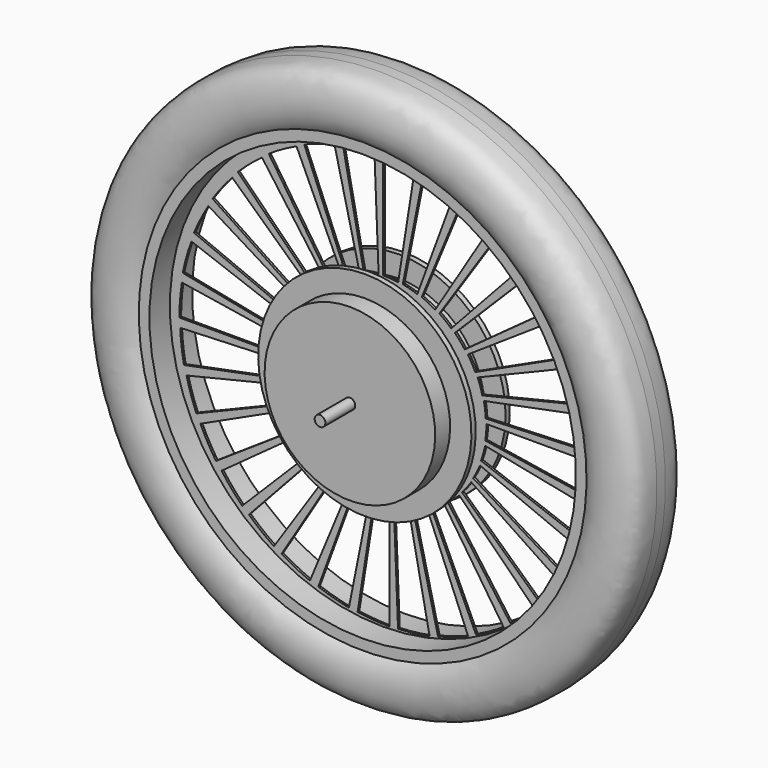
from build123d import *

# Parameters (mm, degrees)
F3_DEPTH      = 10
F4_R          = 5
F5_DEPTH      = 35
F5_DEPTH_BACK = 115


with BuildPart() as f1:
    # F0 (on Right) → F1 (revolve)
    with BuildSketch(Plane.YZ):
        with BuildLine():
            Line((-25, 200), (-1, 200))
            Line((-1, 200), (-1, 80))
            Line((-1, 80), (-17.5, 80))
            Line((-17.5, 80), (-17.5, 100))
            Line((-17.5, 100), (-22.5, 100))
            Line((-22.5, 100), (-22.5, 80))
            Line((-22.5, 80), (-40, 80))
            Line((-40, 80), (-40, 0))
            Line((-40, 0), (0, 0))
            Line((0, 0), (40, 0))
            Line((40, 0), (40, 80))
            Line((40, 80), (22.5, 80))
            Line((22.5, 80), (22.5, 100))
            Line((22.5, 100), (17.5, 100))
            Line((17.5, 100), (17.5, 80))
            Line((17.5, 80), (1, 80))
            Line((1, 80), (1, 200))
            Line((1, 200), (25, 200))
            Line((25, 200), (25, 210))
            add(Edge.make_bspline(
                [(5, 260), (14.4691513851, 259.7929239273), (28.9102213772, 257.5213293499), (34.4464546168, 227.2278870991), (28.855293881, 214.4344179728), (25, 210)],
                knots=[0, 0, 0, 0, 0.3296658948, 0.6914650989, 1, 1, 1, 1], degree=3))
            Line((5, 260), (0, 260))
            Line((0, 260), (-5, 260))
            add(Edge.make_bspline(
                [(-5, 260), (-14.4691513851, 259.7929239273), (-28.9102213772, 257.5213293499), (-34.4464546168, 227.2278870991), (-28.855293881, 214.4344179728), (-25, 210)],
                knots=[0, 0, 0, 0, 0.3296658948, 0.6914650989, 1, 1, 1, 1], degree=3))
            Line((-25, 210), (-25, 200))
        make_face()
    revolve(axis=Axis((0, -20, 0), (0, -1, 0)))

    # F2 (on face) → F3 (cut)
    with BuildSketch(Plane.XZ.offset(1)):
        with BuildLine():
            Line((0, 190), (0, 90))
            ThreePointArc((0, 90), (7.0613186155, 89.722560036), (14.0791018536, 88.8919506536))
            Line((14.0791018536, 88.8919506536), (29.7225483576, 187.6607847131))
            ThreePointArc((29.7225483576, 187.6607847131), (14.9072281883, 189.4142934093), (0, 190))
        make_face()
        with BuildLine():
            Line((-37.7873919745, 185.7091902602), (-18.2783597729, 87.6306622199))
            ThreePointArc((-18.2783597729, 87.6306622199), (-11.2985965627, 88.7361481095), (-4.2536142098, 89.2906002452))
            Line((-4.2536142098, 89.2906002452), (-8.1795957857, 189.2135038693))
            ThreePointArc((-8.1795957857, 189.2135038693), (-23.0523363084, 188.042993805), (-37.7873919745, 185.7091902602))
        make_face()
        with BuildLine():
            Line((-74.0116143541, 174.1288727579), (-35.7432711176, 81.7409195068))
            ThreePointArc((-35.7432711176, 81.7409195068), (-29.1132916985, 84.1868480473), (-22.3118449518, 86.1050544165))
            Line((-22.3118449518, 86.1050544165), (-45.6563813374, 183.3420464563))
            ThreePointArc((-45.6563813374, 183.3420464563), (-60.014991136, 179.2924996768), (-74.0116143541, 174.1288727579))
        make_face()
        with BuildLine():
            Line((-107.2805905875, 155.7040726004), (-51.7235672855, 72.5571113702))
            ThreePointArc((-51.7235672855, 72.5571113702), (-45.6981580485, 76.2494868995), (-39.4016226921, 79.4577319072))
            Line((-39.4016226921, 79.4577319072), (-81.2675964459, 170.2720492897))
            ThreePointArc((-81.2675964459, 170.2720492897), (-94.5602821982, 163.4990876068), (-107.2805905875, 155.7040726004))
        make_face()
        with BuildLine():
            Line((-136.3158125755, 131.1428445251), (-65.6051344568, 60.4321664065))
            ThreePointArc((-65.6051344568, 60.4321664065), (-60.4158484998, 65.2290930037), (-54.8661968564, 69.6040855934))
            Line((-54.8661968564, 69.6040855934), (-113.6447220856, 150.5057850309))
            ThreePointArc((-113.6447220856, 150.5057850309), (-125.3606533328, 141.2696895637), (-136.3158125755, 131.1428445251))
        make_face()
        with BuildLine():
            Line((-160.0014730202, 101.3890627528), (-76.85451179, 45.8320394508))
            ThreePointArc((-76.85451179, 45.8320394508), (-72.700770462, 51.5491739169), (-68.1112725319, 56.922785577))
            Line((-68.1112725319, 56.922785577), (-141.5435234755, 124.8028601303))
            ThreePointArc((-141.5435234755, 124.8028601303), (-151.2324635501, 113.4585688479), (-160.0014730202, 101.3890627528))
        make_face()
        with BuildLine():
            Line((-177.4273452739, 67.5861484308), (-85.0393920227, 29.3178051943))
            ThreePointArc((-85.0393920227, 29.3178051943), (-82.0808212737, 35.735441258), (-78.6278488886, 41.9011671059))
            Line((-78.6278488886, 41.9011671059), (-163.891865324, 94.1510235775))
            ThreePointArc((-163.891865324, 94.1510235775), (-171.1814736925, 81.1344912319), (-177.4273452739, 67.5861484308))
        make_face()
        with BuildLine():
            Line((-187.9237628383, 31.0331285997), (-89.845234798, 11.5240963981))
            ThreePointArc((-89.845234798, 11.5240963981), (-88.1955308425, 18.3956079045), (-86.0117797947, 25.1165025536))
            Line((-86.0117797947, 25.1165025536), (-179.8309133869, 59.7282082613))
            ThreePointArc((-179.8309133869, 59.7282082613), (-184.4410544879, 45.539652891), (-187.9237628383, 31.0331285997))
        make_face()
        with BuildLine():
            Line((-191.0873542729, -6.8652846876), (-91.0873542729, -6.8652846876))
            ThreePointArc((-91.0873542729, -6.8652846876), (-90.8099143089, 0.1960339279), (-89.9793049265, 7.213817166))
            Line((-89.9793049265, 7.213817166), (-188.748138986, 22.85726367))
            ThreePointArc((-188.748138986, 22.85726367), (-190.5016476822, 8.0419435007), (-191.0873542729, -6.8652846876))
        make_face()
        with BuildLine():
            Line((-186.7965445331, -44.6526766621), (-88.7180164928, -25.1436444605))
            ThreePointArc((-88.7180164928, -25.1436444605), (-89.8235023824, -18.1638812503), (-90.3779545181, -11.1188988974))
            Line((-90.3779545181, -11.1188988974), (-190.3008581422, -15.0448804733))
            ThreePointArc((-190.3008581422, -15.0448804733), (-189.1303480779, -29.917620996), (-186.7965445331, -44.6526766621))
        make_face()
        with BuildLine():
            Line((-175.2162270308, -80.8768990417), (-82.8282737797, -42.6085558052))
            ThreePointArc((-82.8282737797, -42.6085558052), (-85.2742023202, -35.9785763861), (-87.1924086895, -29.1771296394))
            Line((-87.1924086895, -29.1771296394), (-184.4294007292, -52.521666025))
            ThreePointArc((-184.4294007292, -52.521666025), (-180.3798539497, -66.8802758236), (-175.2162270308, -80.8768990417))
        make_face()
        with BuildLine():
            Line((-156.7914268734, -114.1458752751), (-73.6444656431, -58.5888519731))
            ThreePointArc((-73.6444656431, -58.5888519731), (-77.3368411724, -52.5634427361), (-80.5450861801, -46.2669073797))
            Line((-80.5450861801, -46.2669073797), (-171.3594035626, -88.1328811335))
            ThreePointArc((-171.3594035626, -88.1328811335), (-164.5864418797, -101.4255668858), (-156.7914268734, -114.1458752751))
        make_face()
        with BuildLine():
            Line((-132.230198798, -143.1810972631), (-61.5195206794, -72.4704191444))
            ThreePointArc((-61.5195206794, -72.4704191444), (-66.3164472766, -67.2811331874), (-70.6914398663, -61.731481544))
            Line((-70.6914398663, -61.731481544), (-151.5931393038, -120.5100067732))
            ThreePointArc((-151.5931393038, -120.5100067732), (-142.3570438366, -132.2259380204), (-132.230198798, -143.1810972631))
        make_face()
        with BuildLine():
            Line((-102.4764170257, -166.8667577078), (-46.9193937237, -83.7197964776))
            ThreePointArc((-46.9193937237, -83.7197964776), (-52.6365281898, -79.5660551496), (-58.0101398499, -74.9765572195))
            Line((-58.0101398499, -74.9765572195), (-125.8902144032, -148.4088081631))
            ThreePointArc((-125.8902144032, -148.4088081631), (-114.5459231208, -158.0977482377), (-102.4764170257, -166.8667577078))
        make_face()
        with BuildLine():
            Line((-68.6735027037, -184.2926299615), (-30.4051594672, -91.9046767103))
            ThreePointArc((-30.4051594672, -91.9046767103), (-36.8227955309, -88.9461059613), (-42.9885213788, -85.4931335762))
            Line((-42.9885213788, -85.4931335762), (-95.2383778504, -170.7571500116))
            ThreePointArc((-95.2383778504, -170.7571500116), (-82.2218455049, -178.0467583801), (-68.6735027037, -184.2926299615))
        make_face()
        with BuildLine():
            Line((-32.1204828726, -194.7890475259), (-12.611450671, -96.7105194856))
            ThreePointArc((-12.611450671, -96.7105194856), (-19.4829621774, -95.0608155301), (-26.2038568265, -92.8770644823))
            Line((-26.2038568265, -92.8770644823), (-60.8155625343, -186.6961980745))
            ThreePointArc((-60.8155625343, -186.6961980745), (-46.6270071639, -191.3063391755), (-32.1204828726, -194.7890475259))
        make_face()
        with BuildLine():
            Line((5.7779304147, -197.9526389605), (5.7779304147, -97.9526389605))
            ThreePointArc((5.7779304147, -97.9526389605), (-1.2833882008, -97.6751989965), (-8.3011714389, -96.8445896141))
            Line((-8.3011714389, -96.8445896141), (-23.944617943, -195.6134236736))
            ThreePointArc((-23.944617943, -195.6134236736), (-9.1292977736, -197.3669323698), (5.7779304147, -197.9526389605))
        make_face()
        with BuildLine():
            Line((43.5653223892, -193.6618292207), (24.0562901876, -95.5833011804))
            ThreePointArc((24.0562901876, -95.5833011804), (17.0765269774, -96.68878707), (10.0315446245, -97.2432392057))
            Line((10.0315446245, -97.2432392057), (13.9575262004, -197.1661428298))
            ThreePointArc((13.9575262004, -197.1661428298), (28.8302667231, -195.9956327655), (43.5653223892, -193.6618292207))
        make_face()
        with BuildLine():
            Line((79.7895447688, -182.0815117184), (41.5212015323, -89.6935584673))
            ThreePointArc((41.5212015323, -89.6935584673), (34.8912221132, -92.1394870078), (28.0897753665, -94.0576933771))
            Line((28.0897753665, -94.0576933771), (51.4343117521, -191.2946854168))
            ThreePointArc((51.4343117521, -191.2946854168), (65.7929215507, -187.2451386373), (79.7895447688, -182.0815117184))
        make_face()
        with BuildLine():
            Line((113.0585210022, -163.656711561), (57.5014977002, -80.5097503307))
            ThreePointArc((57.5014977002, -80.5097503307), (51.4760884632, -84.20212586), (45.1795531068, -87.4103708677))
            Line((45.1795531068, -87.4103708677), (87.0455268606, -178.2246882502))
            ThreePointArc((87.0455268606, -178.2246882502), (100.3382126129, -171.4517265673), (113.0585210022, -163.656711561))
        make_face()
        with BuildLine():
            Line((142.0937429902, -139.0954834856), (71.3830648715, -68.384805367))
            ThreePointArc((71.3830648715, -68.384805367), (66.1937789144, -73.1817319642), (60.644127271, -77.5567245539))
            Line((60.644127271, -77.5567245539), (119.4226525003, -158.4584239914))
            ThreePointArc((119.4226525003, -158.4584239914), (131.1385837475, -149.2223285242), (142.0937429902, -139.0954834856))
        make_face()
        with BuildLine():
            Line((165.7794034349, -109.3417017133), (82.6324422046, -53.7846784113))
            ThreePointArc((82.6324422046, -53.7846784113), (78.4787008767, -59.5018128774), (73.8892029466, -64.8754245375))
            Line((73.8892029466, -64.8754245375), (147.3214538902, -132.7554990908))
            ThreePointArc((147.3214538902, -132.7554990908), (157.0103939648, -121.4112078084), (165.7794034349, -109.3417017133))
        make_face()
        with BuildLine():
            Line((183.2052756886, -75.5387873913), (90.8173224374, -37.2704441548))
            ThreePointArc((90.8173224374, -37.2704441548), (87.8587516884, -43.6880802185), (84.4057793033, -49.8538060664))
            Line((84.4057793033, -49.8538060664), (169.6697957387, -102.103662538))
            ThreePointArc((169.6697957387, -102.103662538), (176.9594041072, -89.0871301925), (183.2052756886, -75.5387873913))
        make_face()
        with BuildLine():
            Line((193.701693253, -38.9857675602), (95.6231652126, -19.4767353586))
            ThreePointArc((95.6231652126, -19.4767353586), (93.9734612572, -26.348246865), (91.7897102094, -33.0691415141))
            Line((91.7897102094, -33.0691415141), (185.6088438016, -67.6808472219))
            ThreePointArc((185.6088438016, -67.6808472219), (190.2189849025, -53.4922918515), (193.701693253, -38.9857675602))
        make_face()
        with BuildLine():
            Line((196.8652846876, -1.0873542729), (96.8652846876, -1.0873542729))
            ThreePointArc((96.8652846876, -1.0873542729), (96.5878447236, -8.1486728884), (95.7572353412, -15.1664561265))
            Line((95.7572353412, -15.1664561265), (194.5260694007, -30.8099026306))
            ThreePointArc((194.5260694007, -30.8099026306), (196.2795780969, -15.9945824612), (196.8652846876, -1.0873542729))
        make_face()
        with BuildLine():
            Line((192.5744749478, 36.7000377016), (94.4959469075, 17.1910055))
            ThreePointArc((94.4959469075, 17.1910055), (95.6014327971, 10.2112422897), (96.1558849328, 3.1662599369))
            Line((96.1558849328, 3.1662599369), (196.0787885569, 7.0922415128))
            ThreePointArc((196.0787885569, 7.0922415128), (194.9082784926, 21.9649820355), (192.5744749478, 36.7000377016))
        make_face()
        with BuildLine():
            Line((180.9941574455, 72.9242600812), (88.6062041944, 34.6559168447))
            ThreePointArc((88.6062041944, 34.6559168447), (91.0521327349, 28.0259374256), (92.9703391041, 21.2244906789))
            Line((92.9703391041, 21.2244906789), (190.2073311439, 44.5690270645))
            ThreePointArc((190.2073311439, 44.5690270645), (186.1577843644, 58.9276368631), (180.9941574455, 72.9242600812))
        make_face()
        with BuildLine():
            Line((162.569357288, 106.1932363146), (79.4223960578, 50.6362130126))
            ThreePointArc((79.4223960578, 50.6362130126), (83.1147715871, 44.6108037756), (86.3230165948, 38.3142684192))
            Line((86.3230165948, 38.3142684192), (177.1373339773, 80.180242173))
            ThreePointArc((177.1373339773, 80.180242173), (170.3643722944, 93.4729279253), (162.569357288, 106.1932363146))
        make_face()
        with BuildLine():
            Line((138.0081292127, 135.2284583026), (67.2974510941, 64.5177801839))
            ThreePointArc((67.2974510941, 64.5177801839), (72.0943776913, 59.3284942268), (76.469370281, 53.7788425834))
            Line((76.469370281, 53.7788425834), (157.3710697185, 112.5573678127))
            ThreePointArc((157.3710697185, 112.5573678127), (148.1349742513, 124.2732990599), (138.0081292127, 135.2284583026))
        make_face()
        with BuildLine():
            Line((108.2543474404, 158.9141187473), (52.6973241384, 75.767157517))
            ThreePointArc((52.6973241384, 75.767157517), (58.4144586045, 71.6134161891), (63.7880702646, 67.023918259))
            Line((63.7880702646, 67.023918259), (131.6681448179, 140.4561692026))
            ThreePointArc((131.6681448179, 140.4561692026), (120.3238535355, 150.1451092772), (108.2543474404, 158.9141187473))
        make_face()
        with BuildLine():
            Line((74.4514331184, 176.339991001), (36.1830898819, 83.9520377498))
            ThreePointArc((36.1830898819, 83.9520377498), (42.6007259456, 80.9934670008), (48.7664517935, 77.5404946157))
            Line((48.7664517935, 77.5404946157), (101.0163082651, 162.8045110511))
            ThreePointArc((101.0163082651, 162.8045110511), (87.9997759195, 170.0941194196), (74.4514331184, 176.339991001))
        make_face()
        with BuildLine():
            Line((37.8984132873, 186.8364085654), (18.3893810857, 88.757880525))
            ThreePointArc((18.3893810857, 88.757880525), (25.2608925921, 87.1081765696), (31.9817872412, 84.9244255218))
            Line((31.9817872412, 84.9244255218), (66.593492949, 178.743559114))
            ThreePointArc((66.593492949, 178.743559114), (52.4049375786, 183.3537002149), (37.8984132873, 186.8364085654))
        make_face()
    extrude(amount=-F3_DEPTH, mode=Mode.SUBTRACT)

    # F4 (on face) → F5 (join, two sides)
    with BuildSketch(Plane.XZ.offset(40)) as f5_sk:
        Circle(F4_R)
    extrude(amount=F5_DEPTH)
    extrude(f5_sk.sketch, amount=-F5_DEPTH_BACK)


solid = f1.part
